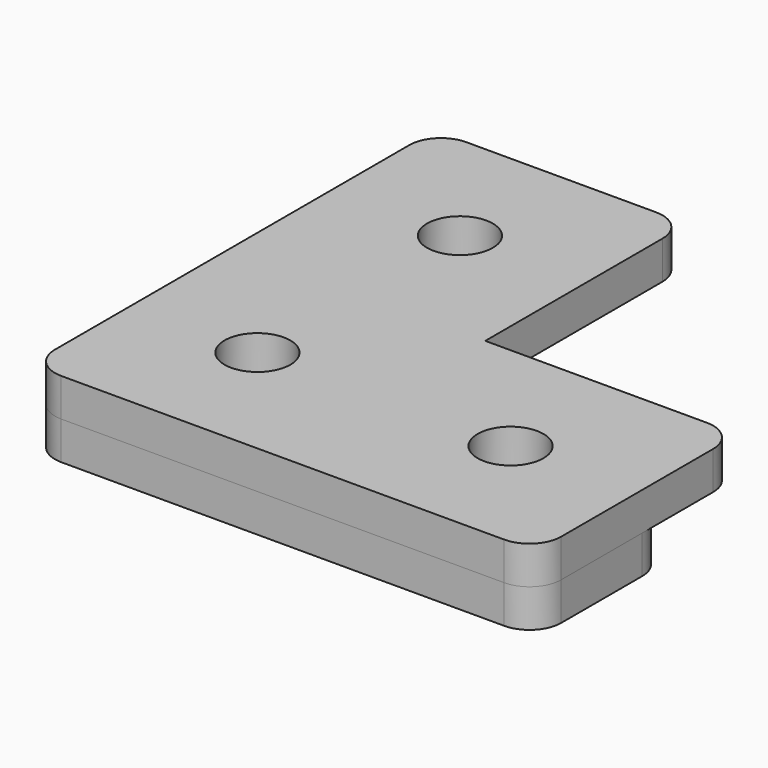
from build123d import *

# Parameters (mm, degrees)
F0_R     = 2.6
F1_DEPTH = 3
F2_R     = 2.6
F3_DEPTH = 3


with BuildPart() as f1:
    # F0 (on Top) → F1 (new body)
    with BuildSketch(Plane.XY):
        with BuildLine():
            Line((-17.5, -20), (17.5, -20))
            ThreePointArc((17.5, -20), (19.267767, -19.267767), (20, -17.5))
            Line((20, -17.5), (20, -2.5))
            ThreePointArc((20, -2.5), (19.267767, -0.732233), (17.5, 0))
            Line((17.5, 0), (0, 0))
            Line((0, 0), (0, 17.5))
            ThreePointArc((0, 17.5), (-0.732233, 19.267767), (-2.5, 20))
            Line((-2.5, 20), (-17.5, 20))
            ThreePointArc((-17.5, 20), (-19.267767, 19.267767), (-20, 17.5))
            Line((-20, 17.5), (-20, -17.5))
            ThreePointArc((-20, -17.5), (-19.267767, -19.267767), (-17.5, -20))
        make_face()
        with Locations((-10, -10)):
            Circle(F0_R, mode=Mode.SUBTRACT)
        with Locations((10, -10)):
            Circle(F0_R, mode=Mode.SUBTRACT)
        with Locations((-10, 10)):
            Circle(F0_R, mode=Mode.SUBTRACT)
    extrude(amount=F1_DEPTH)


with BuildPart() as f3:
    # F2 (on face) → F3 (new body)
    with BuildSketch(Plane(origin=(0, 0, 0), x_dir=(1, 0, 0), z_dir=(0, 0, -1))):
        with BuildLine():
            ThreePointArc((-7, 4.5), (-6.267767, 6.267767), (-4.5, 7))
            Line((-4.5, 7), (17.5, 7))
            ThreePointArc((17.5, 7), (19.267767, 7.732233), (20, 9.5))
            Line((20, 9.5), (20, 17.5))
            ThreePointArc((20, 17.5), (19.267767, 19.267767), (17.5, 20))
            Line((17.5, 20), (-17.5, 20))
            ThreePointArc((-17.5, 20), (-19.267767, 19.267767), (-20, 17.5))
            Line((-20, 17.5), (-20, -17.5))
            ThreePointArc((-20, -17.5), (-19.267767, -19.267767), (-17.5, -20))
            Line((-17.5, -20), (-9.5, -20))
            ThreePointArc((-9.5, -20), (-7.732233, -19.267767), (-7, -17.5))
            Line((-7, -17.5), (-7, 4.5))
        make_face()
        with Locations((-10, -10)):
            Circle(F2_R, mode=Mode.SUBTRACT)
        with Locations((-10, 10)):
            Circle(F2_R, mode=Mode.SUBTRACT)
        with Locations((10, 10)):
            Circle(F2_R, mode=Mode.SUBTRACT)
    extrude(amount=F3_DEPTH)


solid = Compound([f1.part, f3.part])
